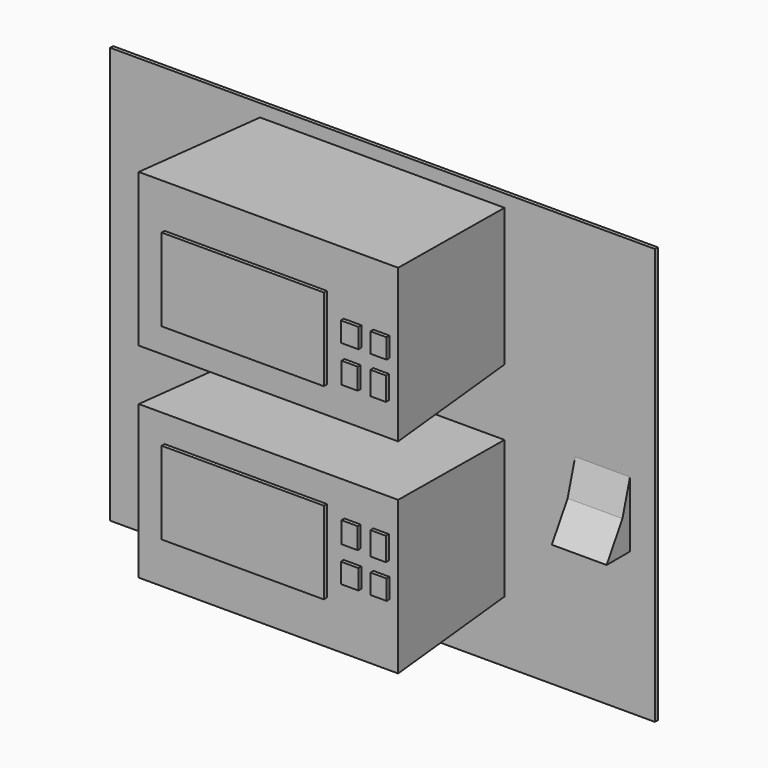
from build123d import *

# Parameters (mm, degrees)
F0_W      = 66.9087618589
F0_H      = 37.7080328763
F1_DEPTH  = 40
F1_TAPER  = -3
F2_W      = 44.4693062454
F2_H      = 22.6213429123
F3_DEPTH  = 1
F2_W_2    = 4.4469255954
F2_H_2    = 5.8003440499
F2_W_3    = 4.2535867542
F2_H_3    = 6.3803782687
F2_W_4    = 4.8336200416
F2_H_4    = 5.4136546096
F2_W_5    = 4.446933046
F6_W      = 149.2954716086
F6_H      = 114.1182482243
F7_DEPTH  = 1
F8_W      = 15.024073422
F8_H      = 17.9893565364
F9_DEPTH  = 8
F11_DEPTH = 16.9


with BuildPart() as f1:
    # F0 (on Front) → F1 (new body)
    with BuildSketch(Plane.XZ):
        Rectangle(F0_W, F0_H)
    extrude(amount=F1_DEPTH, taper=F1_TAPER)


with BuildPart() as f3:
    # F2 (on face) → F3 (new body)
    with BuildSketch(Plane.XZ.offset(40)):
        with Locations((-6.2495721504, 2.280915156)):
            Rectangle(F2_W, F2_H)
    extrude(amount=F3_DEPTH)


with BuildPart() as f3b:
    # F2 (on face) → F3, piece 2 (new body)
    with BuildSketch(Plane.XZ.offset(40)):
        with Locations((23.0421656743, 8.7579656392)):
            Rectangle(F2_W_2, F2_H_2)
    extrude(amount=F3_DEPTH)


with BuildPart() as f3c:
    # F2 (on face) → F3, piece 3 (new body)
    with BuildSketch(Plane.XZ.offset(40)):
        with Locations((30.8726290241, 8.661292959)):
            Rectangle(F2_W_3, F2_H_3)
    extrude(amount=F3_DEPTH)


with BuildPart() as f3d:
    # F2 (on face) → F3, piece 4 (new body)
    with BuildSketch(Plane.XZ.offset(40)):
        with Locations((23.0421684682, -1.1026191642)):
            Rectangle(F2_W_4, F2_H_4)
    extrude(amount=F3_DEPTH)


with BuildPart() as f3e:
    # F2 (on face) → F3, piece 5 (new body)
    with BuildSketch(Plane.XZ.offset(40)):
        with Locations((30.96930217, -1.1026191642)):
            Rectangle(F2_W_5, F2_H_4)
    extrude(amount=F3_DEPTH)


with BuildPart() as f5_1:
    # F5: instance of F1
    add(f1.part.mirror(Plane.XY.offset(28)))


with BuildPart() as f5_2:
    # F5: instance of F3
    add(f3.part.mirror(Plane.XY.offset(28)))


with BuildPart() as f5_3:
    # F5: instance of F3b
    add(f3b.part.mirror(Plane.XY.offset(28)))


with BuildPart() as f5_4:
    # F5: instance of F3c
    add(f3c.part.mirror(Plane.XY.offset(28)))


with BuildPart() as f5_5:
    # F5: instance of F3d
    add(f3d.part.mirror(Plane.XY.offset(28)))


with BuildPart() as f5_6:
    # F5: instance of F3e
    add(f3e.part.mirror(Plane.XY.offset(28)))


with BuildPart() as f7:
    # F6 (on Front) → F7 (new body)
    with BuildSketch(Plane.XZ):
        with Locations((0.0716932118, 21.3082656264)):
            Rectangle(F6_W, F6_H)
    extrude(amount=F7_DEPTH)

    # F8 (on face) → F9 (join)
    with BuildSketch(Plane.XZ.offset(1)):
        with Locations((60.3805892169, 12.1372377034)):
            Rectangle(F8_W, F8_H)
    extrude(amount=F9_DEPTH)

    # F10 (on face) → F11 (cut)
    with BuildSketch(Plane.YZ.offset(67.8926259279)):
        Polygon((-3.5800645128, 12.1372377034), (-1, 21.1319159716), (-9, 21.1319159716), (-9, 3.1425594352), align=None)
    extrude(amount=-F11_DEPTH, mode=Mode.SUBTRACT)


solid = Compound([f1.part, f3.part, f3b.part, f3c.part, f3d.part, f3e.part, f5_1.part, f5_2.part, f5_3.part, f5_4.part, f5_5.part, f5_6.part, f7.part])
